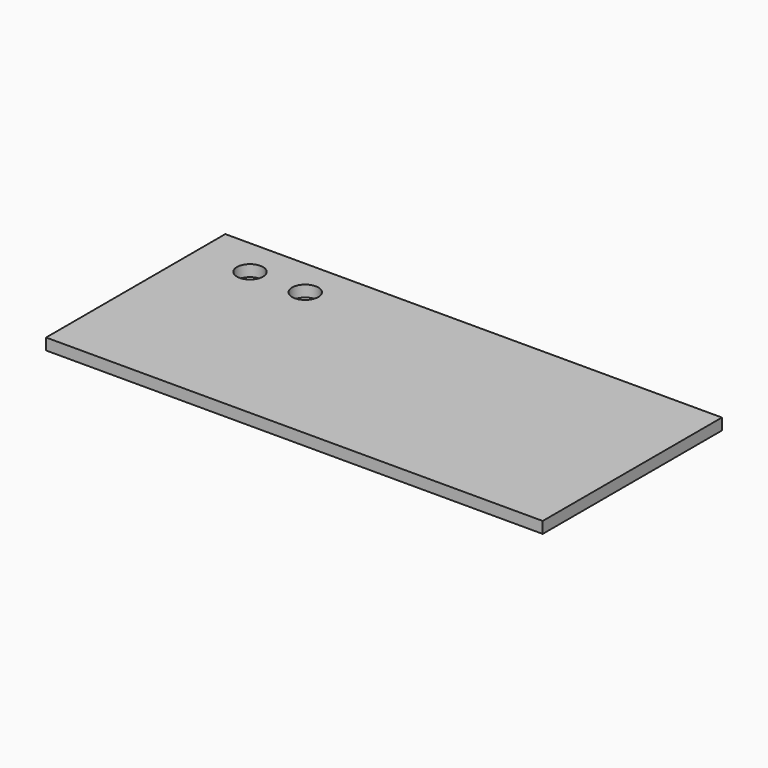
from build123d import *

# Parameters (mm, degrees)
F0_W     = 120.745026
F0_H     = 54.459359
F1_DEPTH = 2.778125
F3_D     = 6.35


with BuildPart() as f1:
    # F0 (on Top) → F1 (new body)
    with BuildSketch(Plane.XY):
        with Locations((60.372513, -27.229679)):
            Rectangle(F0_W, F0_H)
    extrude(amount=F1_DEPTH)

    # F3 (through all)
    with Locations(Plane.XY.offset(2.778125)):
        with Locations((13.366289, -9.19823), (26.798628, -9.19823)):
            Hole(F3_D / 2)


solid = f1.part
